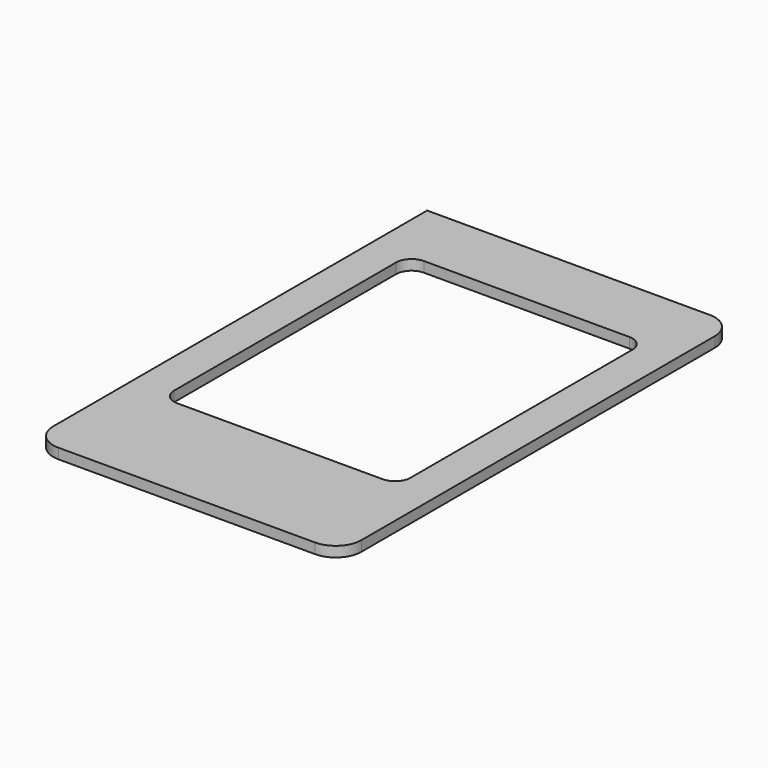
from build123d import *

# Parameters (mm, degrees)
F1_DEPTH = 2


with BuildPart() as f1:
    # F0 (on Top) → F1 (new body)
    with BuildSketch(Plane.XY):
        with BuildLine():
            Line((-25, -48), (25, -48))
            ThreePointArc((25, -48), (28.535534, -46.535534), (30, -43))
            Line((30, -43), (30, 40))
            Line((30, 40), (30, 43))
            ThreePointArc((30, 43), (28.535534, 46.535534), (25, 48))
            Line((25, 48), (20, 48))
            Line((20, 48), (-27, 48))
            Line((-27, 48), (-30, 48))
            Line((-30, 48), (-30, 43))
            Line((-30, 43), (-30, -43))
            ThreePointArc((-30, -43), (-28.535534, -46.535534), (-25, -48))
        make_face()
        with BuildLine():
            ThreePointArc((-23, 31.7), (-22.12132, 33.82132), (-20, 34.7))
            Line((-20, 34.7), (20, 34.7))
            ThreePointArc((20, 34.7), (22.12132, 33.82132), (23, 31.7))
            Line((23, 31.7), (23, -22.3))
            ThreePointArc((23, -22.3), (22.12132, -24.42132), (20, -25.3))
            Line((20, -25.3), (-20, -25.3))
            ThreePointArc((-20, -25.3), (-22.12132, -24.42132), (-23, -22.3))
            Line((-23, -22.3), (-23, 31.7))
        make_face(mode=Mode.SUBTRACT)
    extrude(amount=F1_DEPTH)


solid = f1.part
